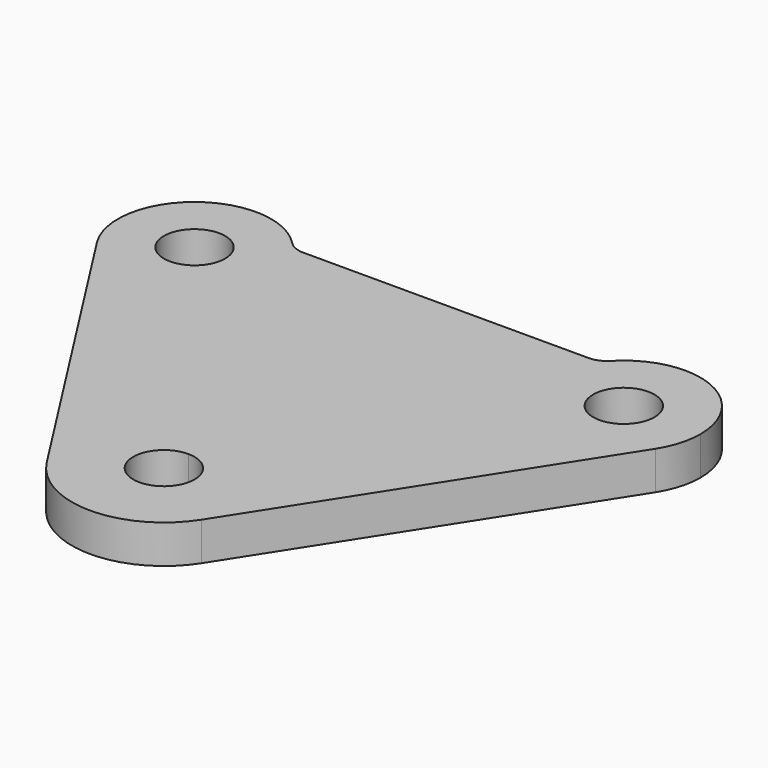
from build123d import *

# Parameters (mm, degrees)
F0_R     = 6.35
F1_DEPTH = 7.9375


with BuildPart() as f1:
    # F0 (on Top) → F1 (new body)
    with BuildSketch(Plane.XY):
        with BuildLine():
            Line((-28.575, 0), (0, 0))
            Line((0, 0), (28.575, 0))
            ThreePointArc((28.575, 0), (29.7212744775, 5.9228599074), (32.9945615097, 10.9903846154))
            ThreePointArc((32.9945615097, 10.9903846154), (31.4259361498, 9.9066371701), (29.5579299626, 9.525))
            Line((29.5579299626, 9.525), (-29.5579299626, 9.525))
            ThreePointArc((-29.5579299626, 9.525), (-31.4259361498, 9.9066371701), (-32.9945615097, 10.9903846154))
            ThreePointArc((-32.9945615097, 10.9903846154), (-29.7212744775, 5.9228599074), (-28.575, 0))
        make_face()
        with BuildLine():
            Line((0, -44.45), (0, 0))
            Line((0, 0), (-28.575, 0))
            ThreePointArc((-28.575, 0), (-39.9885076941, -15.2351800582), (-57.8172943502, -8.5633560451))
            Line((-57.8172943502, -8.5633560451), (-16.0407532202, -73.7760272542))
            ThreePointArc((-16.0407532202, -73.7760272542), (-16.7131807145, -54.3582227984), (0, -44.45))
        make_face()
        with BuildLine():
            Line((28.575, 0), (0, 0))
            Line((0, 0), (0, -44.45))
            ThreePointArc((0, -44.45), (13.4703841816, -50.0296158184), (19.05, -63.5))
            ThreePointArc((19.05, -63.5), (18.2822160698, -68.8537907671), (16.0407532202, -73.7760272542))
            Line((16.0407532202, -73.7760272542), (57.8172943502, -8.5633560451))
            ThreePointArc((57.8172943502, -8.5633560451), (39.9885076941, -15.2351800582), (28.575, 0))
        make_face()
        with BuildLine():
            ThreePointArc((32.9945615097, 10.9903846154), (29.7212744775, 5.9228599074), (28.575, 0))
            ThreePointArc((28.575, 0), (39.9885076941, -15.2351800582), (57.8172943502, -8.5633560451))
            ThreePointArc((57.8172943502, -8.5633560451), (59.6851800582, -4.4614923059), (60.325, 0))
            ThreePointArc((60.325, 0), (50.3728599074, 14.7287255225), (32.9945615097, 10.9903846154))
        make_face()
        with BuildLine():
            ThreePointArc((50.8, 0), (44.45, -6.35), (38.1, 0))
            ThreePointArc((38.1, 0), (44.45, 6.35), (50.8, 0))
        make_face(mode=Mode.SUBTRACT)
        with BuildLine():
            ThreePointArc((-57.8172943502, -8.5633560451), (-39.9885076941, -15.2351800582), (-28.575, 0))
            ThreePointArc((-28.575, 0), (-29.7212744775, 5.9228599074), (-32.9945615097, 10.9903846154))
            ThreePointArc((-32.9945615097, 10.9903846154), (-54.2734918263, 12.4705506429), (-57.8172943502, -8.5633560451))
        make_face()
        with Locations((-44.45, 0)):
            Circle(F0_R, mode=Mode.SUBTRACT)
        with BuildLine():
            ThreePointArc((19.05, -63.5), (13.4703841816, -50.0296158184), (0, -44.45))
            ThreePointArc((0, -44.45), (-16.7131807145, -54.3582227984), (-16.0407532202, -73.7760272542))
            ThreePointArc((-16.0407532202, -73.7760272542), (0, -82.55), (16.0407532202, -73.7760272542))
            ThreePointArc((16.0407532202, -73.7760272542), (18.2822160698, -68.8537907671), (19.05, -63.5))
        make_face()
        with BuildLine():
            ThreePointArc((6.35, -63.5), (-4.4901280605, -67.9901280605), (0, -57.15))
            ThreePointArc((0, -57.15), (4.4901280605, -59.0098719395), (6.35, -63.5))
        make_face(mode=Mode.SUBTRACT)
    extrude(amount=F1_DEPTH)


solid = f1.part
